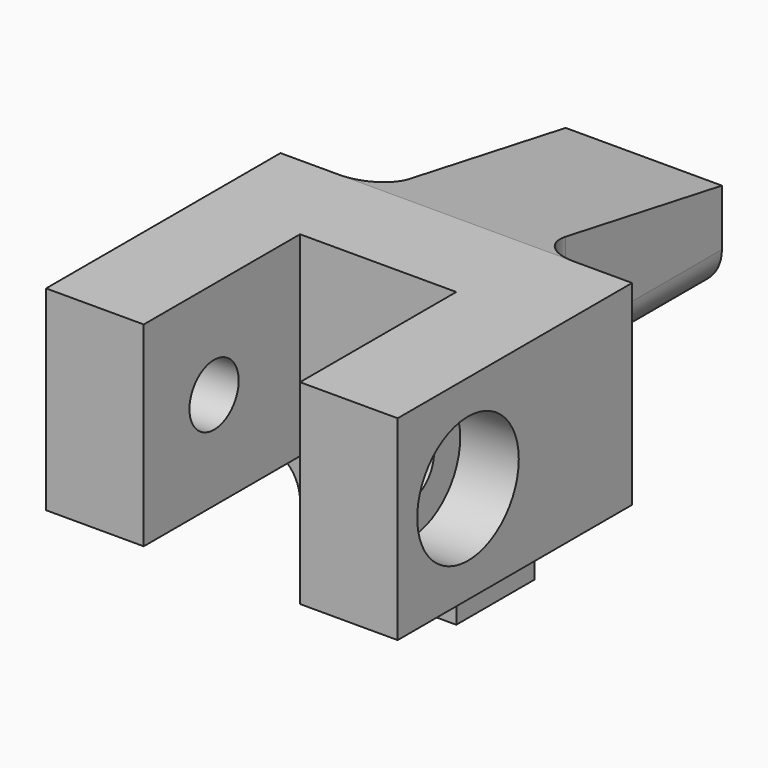
from build123d import *

# Parameters (mm, degrees)
F0_W            = 18
F0_H            = 10
F1_DEPTH        = 15
F2_W            = 8
F2_H            = 10
F3_DEPTH        = 10
F5_D            = 3.15
F5_CBORE_D      = 6.5
F5_CBORE_DEPTH  = 3
F7_DEPTH        = 2.4
F8_W            = 8
F8_H            = 15
F9_DEPTH        = 17
F10_W           = 8
F10_H           = 8
F11_DEPTH       = 12
F13_D           = 3.15
F13_CSINK_D     = 6.72
F13_CSINK_ANGLE = 90
F15_DEPTH       = 25
F16_R           = 2


with BuildPart() as f1:
    # F0 (on Front) → F1 (new body)
    with BuildSketch(Plane.XZ):
        with Locations((0, 5)):
            Rectangle(F0_W, F0_H)
    extrude(amount=F1_DEPTH)

    # F2 (on face) → F3 (cut)
    with BuildSketch(Plane.XZ.offset(15)):
        with Locations((0, 5)):
            Rectangle(F2_W, F2_H)
    extrude(amount=-F3_DEPTH, mode=Mode.SUBTRACT)

    # F5 (through all)
    with Locations(Plane.YZ.offset(9)):
        with Locations((-10.5, 5)):
            CounterBoreHole(F5_D / 2, F5_CBORE_D / 2, F5_CBORE_DEPTH)

    # F6 (on face) → F7 (cut)
    with BuildSketch(Plane(origin=(-9, 0, 0), x_dir=(0, -1, 0), z_dir=(-1, 0, 0))):
        Polygon((12.1165807537, 2.2), (13.7331615075, 5), (12.1165807537, 7.8), (8.8834192463, 7.8), (7.2668384925, 5), (8.8834192463, 2.2), align=None)
    extrude(amount=-F7_DEPTH, mode=Mode.SUBTRACT)

    # F8 (on face) → F9 (join)
    with BuildSketch(Plane.XZ.offset(5)):
        with Locations((0, 2.5)):
            Rectangle(F8_W, F8_H)
    extrude(amount=-F9_DEPTH)

    # F10 (on face) → F11 (cut, through all)
    with BuildSketch(Plane(origin=(0, 12, 0), x_dir=(-1, 0, 0), z_dir=(0, 1, 0))):
        with Locations((0, -1)):
            Rectangle(F10_W, F10_H)
    extrude(amount=-F11_DEPTH, mode=Mode.SUBTRACT)

    # F13 (through all)
    with Locations(Plane.XZ.offset(5)):
        with Locations((0, -1)):
            CounterSinkHole(F13_D / 2, F13_CSINK_D / 2, counter_sink_angle=F13_CSINK_ANGLE)

    # F14 (on face) → F15 (cut)
    with BuildSketch(Plane(origin=(-4, 0, 0), x_dir=(0, -1, 0), z_dir=(-1, 0, 0))):
        Polygon((-12, 7.8840762315), (0, 10), (-12, 10), align=None)
    extrude(amount=-F15_DEPTH, mode=Mode.SUBTRACT)

    # F16 (call 1 of 3: OpenCascade refuses the feature's edges together)
    f16_edges = [f1.edges().sort_by_distance(p)[0] for p in [
        (-4, -2.5, 0),
    ]]
    fillet(f16_edges, radius=F16_R)

    # F16#2 (call 2 of 3)
    f16_2_edges = [f1.edges().sort_by_distance(p)[0] for p in [
        (0, 0, 3),
        (-4, 0, 6.5),
        (4, 0, 6.5),
        (-4, 6, 3),
        (4, 6, 3),
    ]]
    fillet(f16_2_edges, radius=F16_R)

    # F16#3 (call 3 of 3)
    f16_3_edges = [f1.edges().sort_by_distance(p)[0] for p in [
        (4, -2.5, 0),
    ]]
    fillet(f16_3_edges, radius=F16_R)


solid = f1.part
